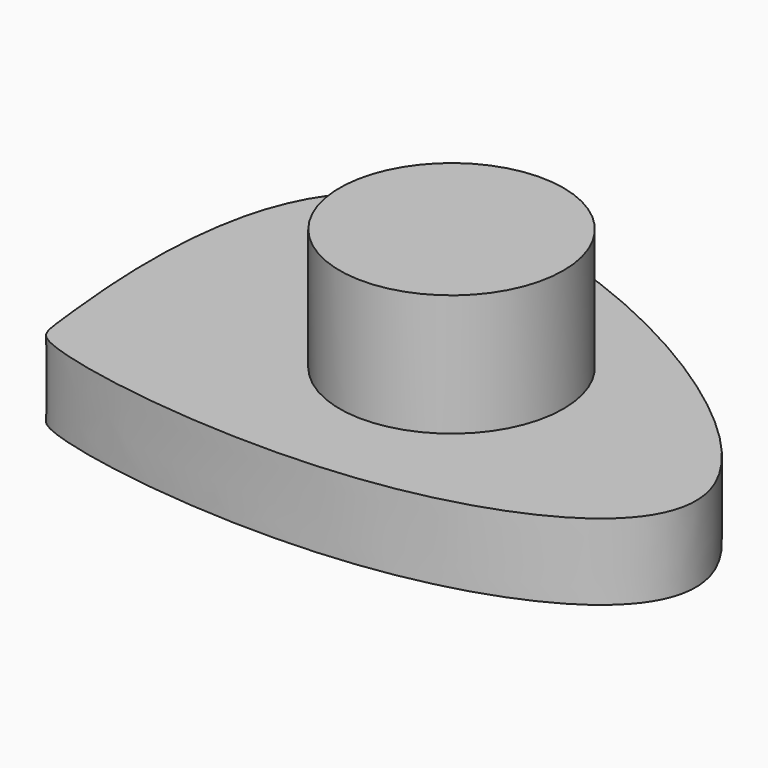
from build123d import *

# Parameters (mm, degrees)
F1_DEPTH = 25
F2_R     = 36.7742693717
F3_DEPTH = 40


with BuildPart() as f1:
    # F0 (on Top) → F1 (new body)
    with BuildSketch(Plane.XY):
        with BuildLine():
            add(Edge.make_bspline(
                [(-110.2458387613, -23.6224271357), (-115.0220882728, -21.3258189896), (-115.7131097836, -13.4950092886), (-137.3577310235, 163.8329361419), (133.2222009264, 20.2715713447), (5.6582488844, -47.6294253111), (-96.0101114923, -30.4675233003), (-110.2458387613, -23.6224271357)],
                knots=[0, 0, 0, 0, 0.0763475323, 0.2958992634, 0.579984131, 0.7724443321, 1, 1, 1, 1], degree=3))
        make_face()
    extrude(amount=F1_DEPTH)

    # F2 (on face) → F3 (join)
    with BuildSketch(Plane.XY.offset(25)):
        with Locations((-21.3614422828, 29.9338549376)):
            Circle(F2_R)
    extrude(amount=F3_DEPTH)


solid = f1.part
